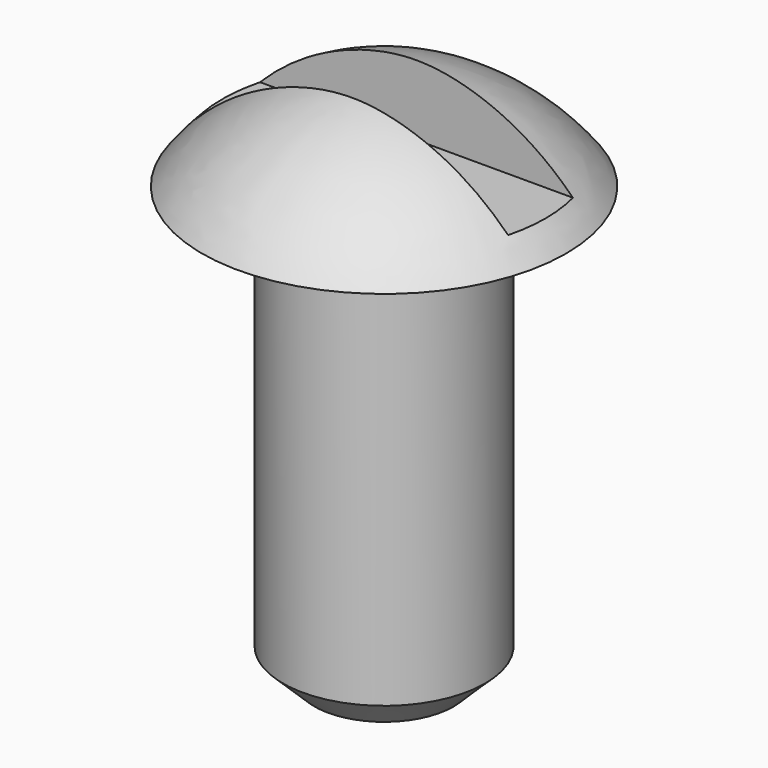
from build123d import *

# Parameters (mm, degrees)
F3_START = -0.762
F2_W     = 10.16
F2_H     = 2.54
F3_DEPTH = 5.334


with BuildPart() as f1:
    # F0 (on Front) → F1 (revolve)
    with BuildSketch(Plane.XZ):
        with BuildLine():
            ThreePointArc((5.715, 12.7), (3.1995631079, 14.9032135943), (0, 15.875))
            Line((0, 15.875), (0, 0))
            Line((0, 0), (0, -0.9576431476))
            Line((0, -0.9576431476), (2.1892786477, -0.9576431476))
            Line((2.1892786477, -0.9576431476), (3.175, 0))
            Line((3.175, 0), (3.175, 12.7))
            Line((3.175, 12.7), (5.715, 12.7))
        make_face()
    revolve(axis=Axis((0, 0, 7.9375), (0, 0, -1)))

    # F2 (on face) → F3 (cut)
    with BuildSketch(Plane(origin=(0, 0, 12.7), x_dir=(1, 0, 0), z_dir=(0, 0, -1)).offset(F3_START)):
        Rectangle(F2_W, F2_H)
    extrude(amount=-F3_DEPTH, mode=Mode.SUBTRACT)


solid = f1.part
